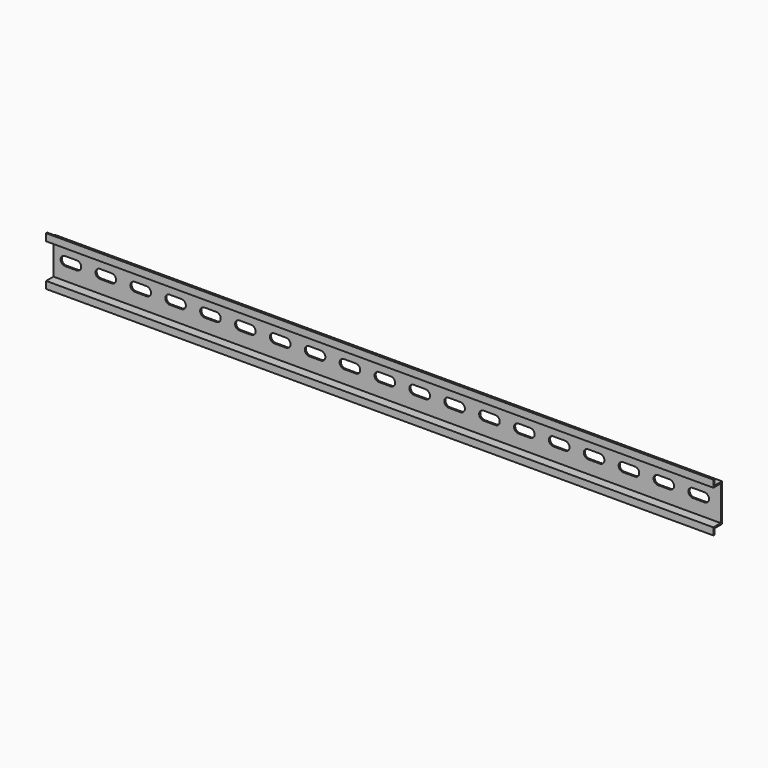
from build123d import *

# Parameters (mm, degrees)
F1_DEPTH = 238.125
F3_DEPTH = 1.017


with BuildPart() as f1:
    # F0 (on Right) → F1 (new body, symmetric)
    with BuildSketch(Plane.YZ):
        Polygon((1.016, 17.526), (0, 17.526), (0, 12.446), (6.604, 12.446), (6.604, -12.446), (0, -12.446), (0, -17.526), (1.016, -17.526), (1.016, -13.462), (7.62, -13.462), (7.62, 13.462), (1.016, 13.462), align=None)
    extrude(amount=F1_DEPTH, both=True)

    # F2 (on face) → F3 (cut, through all)
    with BuildSketch(Plane.XZ.offset(-6.604)):
        with BuildLine():
            Line((-196.62013, 3.175), (-204.95387, 3.175))
            ThreePointArc((-204.95387, 3.175), (-208.12887, 0), (-204.95387, -3.175))
            Line((-204.95387, -3.175), (-196.62013, -3.175))
            ThreePointArc((-196.62013, -3.175), (-193.44513, 0), (-196.62013, 3.175))
        make_face()
        with BuildLine():
            ThreePointArc((-229.84587, 3.175), (-233.02087, 0), (-229.84587, -3.175))
            Line((-229.84587, -3.175), (-221.51213, -3.175))
            ThreePointArc((-221.51213, -3.175), (-218.33713, 0), (-221.51213, 3.175))
            Line((-221.51213, 3.175), (-229.84587, 3.175))
        make_face()
        with BuildLine():
            Line((-196.62013, 3.175), (-204.95387, 3.175))
            ThreePointArc((-204.95387, 3.175), (-208.12887, 0), (-204.95387, -3.175))
            Line((-204.95387, -3.175), (-196.62013, -3.175))
            ThreePointArc((-196.62013, -3.175), (-193.44513, 0), (-196.62013, 3.175))
        make_face()
        with BuildLine():
            Line((-171.72813, 3.175), (-180.06187, 3.175))
            ThreePointArc((-180.06187, 3.175), (-183.23687, 0), (-180.06187, -3.175))
            Line((-180.06187, -3.175), (-171.72813, -3.175))
            ThreePointArc((-171.72813, -3.175), (-168.55313, 0), (-171.72813, 3.175))
        make_face()
        with BuildLine():
            Line((-146.83613, 3.175), (-155.16987, 3.175))
            ThreePointArc((-155.16987, 3.175), (-158.34487, 0), (-155.16987, -3.175))
            Line((-155.16987, -3.175), (-146.83613, -3.175))
            ThreePointArc((-146.83613, -3.175), (-143.66113, 0), (-146.83613, 3.175))
        make_face()
        with BuildLine():
            Line((-121.94413, 3.175), (-130.27787, 3.175))
            ThreePointArc((-130.27787, 3.175), (-133.45287, 0), (-130.27787, -3.175))
            Line((-130.27787, -3.175), (-121.94413, -3.175))
            ThreePointArc((-121.94413, -3.175), (-118.76913, 0), (-121.94413, 3.175))
        make_face()
        with BuildLine():
            Line((-97.05213, 3.175), (-105.38587, 3.175))
            ThreePointArc((-105.38587, 3.175), (-108.56087, 0), (-105.38587, -3.175))
            Line((-105.38587, -3.175), (-97.05213, -3.175))
            ThreePointArc((-97.05213, -3.175), (-93.87713, 0), (-97.05213, 3.175))
        make_face()
        with BuildLine():
            Line((-72.16013, 3.175), (-80.49387, 3.175))
            ThreePointArc((-80.49387, 3.175), (-83.66887, 0), (-80.49387, -3.175))
            Line((-80.49387, -3.175), (-72.16013, -3.175))
            ThreePointArc((-72.16013, -3.175), (-68.98513, 0), (-72.16013, 3.175))
        make_face()
        with BuildLine():
            Line((-47.26813, 3.175), (-55.60187, 3.175))
            ThreePointArc((-55.60187, 3.175), (-58.77687, 0), (-55.60187, -3.175))
            Line((-55.60187, -3.175), (-47.26813, -3.175))
            ThreePointArc((-47.26813, -3.175), (-44.09313, 0), (-47.26813, 3.175))
        make_face()
        with BuildLine():
            Line((-22.37613, 3.175), (-30.70987, 3.175))
            ThreePointArc((-30.70987, 3.175), (-33.88487, 0), (-30.70987, -3.175))
            Line((-30.70987, -3.175), (-22.37613, -3.175))
            ThreePointArc((-22.37613, -3.175), (-19.20113, 0), (-22.37613, 3.175))
        make_face()
        with BuildLine():
            Line((2.51587, 3.175), (-5.81787, 3.175))
            ThreePointArc((-5.81787, 3.175), (-8.99287, 0), (-5.81787, -3.175))
            Line((-5.81787, -3.175), (2.51587, -3.175))
            ThreePointArc((2.51587, -3.175), (5.69087, 0), (2.51587, 3.175))
        make_face()
        with BuildLine():
            Line((27.40787, 3.175), (19.07413, 3.175))
            ThreePointArc((19.07413, 3.175), (15.89913, 0), (19.07413, -3.175))
            Line((19.07413, -3.175), (27.40787, -3.175))
            ThreePointArc((27.40787, -3.175), (30.58287, 0), (27.40787, 3.175))
        make_face()
        with BuildLine():
            Line((52.29987, 3.175), (43.96613, 3.175))
            ThreePointArc((43.96613, 3.175), (40.79113, 0), (43.96613, -3.175))
            Line((43.96613, -3.175), (52.29987, -3.175))
            ThreePointArc((52.29987, -3.175), (55.47487, 0), (52.29987, 3.175))
        make_face()
        with BuildLine():
            Line((77.19187, 3.175), (68.85813, 3.175))
            ThreePointArc((68.85813, 3.175), (65.68313, 0), (68.85813, -3.175))
            Line((68.85813, -3.175), (77.19187, -3.175))
            ThreePointArc((77.19187, -3.175), (80.36687, 0), (77.19187, 3.175))
        make_face()
        with BuildLine():
            Line((102.08387, 3.175), (93.75013, 3.175))
            ThreePointArc((93.75013, 3.175), (90.57513, 0), (93.75013, -3.175))
            Line((93.75013, -3.175), (102.08387, -3.175))
            ThreePointArc((102.08387, -3.175), (105.25887, 0), (102.08387, 3.175))
        make_face()
        with BuildLine():
            Line((126.97587, 3.175), (118.64213, 3.175))
            ThreePointArc((118.64213, 3.175), (115.46713, 0), (118.64213, -3.175))
            Line((118.64213, -3.175), (126.97587, -3.175))
            ThreePointArc((126.97587, -3.175), (130.15087, 0), (126.97587, 3.175))
        make_face()
        with BuildLine():
            Line((151.86787, 3.175), (143.53413, 3.175))
            ThreePointArc((143.53413, 3.175), (140.35913, 0), (143.53413, -3.175))
            Line((143.53413, -3.175), (151.86787, -3.175))
            ThreePointArc((151.86787, -3.175), (155.04287, 0), (151.86787, 3.175))
        make_face()
        with BuildLine():
            Line((176.75987, 3.175), (168.42613, 3.175))
            ThreePointArc((168.42613, 3.175), (165.25113, 0), (168.42613, -3.175))
            Line((168.42613, -3.175), (176.75987, -3.175))
            ThreePointArc((176.75987, -3.175), (179.93487, 0), (176.75987, 3.175))
        make_face()
        with BuildLine():
            Line((201.65187, 3.175), (193.31813, 3.175))
            ThreePointArc((193.31813, 3.175), (190.14313, 0), (193.31813, -3.175))
            Line((193.31813, -3.175), (201.65187, -3.175))
            ThreePointArc((201.65187, -3.175), (204.82687, 0), (201.65187, 3.175))
        make_face()
        with BuildLine():
            Line((226.54387, 3.175), (218.21013, 3.175))
            ThreePointArc((218.21013, 3.175), (215.03513, 0), (218.21013, -3.175))
            Line((218.21013, -3.175), (226.54387, -3.175))
            ThreePointArc((226.54387, -3.175), (229.71887, 0), (226.54387, 3.175))
        make_face()
        with BuildLine():
            Line((251.43587, 3.175), (243.10213, 3.175))
            ThreePointArc((243.10213, 3.175), (239.92713, 0), (243.10213, -3.175))
            Line((243.10213, -3.175), (251.43587, -3.175))
            ThreePointArc((251.43587, -3.175), (254.61087, 0), (251.43587, 3.175))
        make_face()
    extrude(amount=-F3_DEPTH, mode=Mode.SUBTRACT)


solid = f1.part
